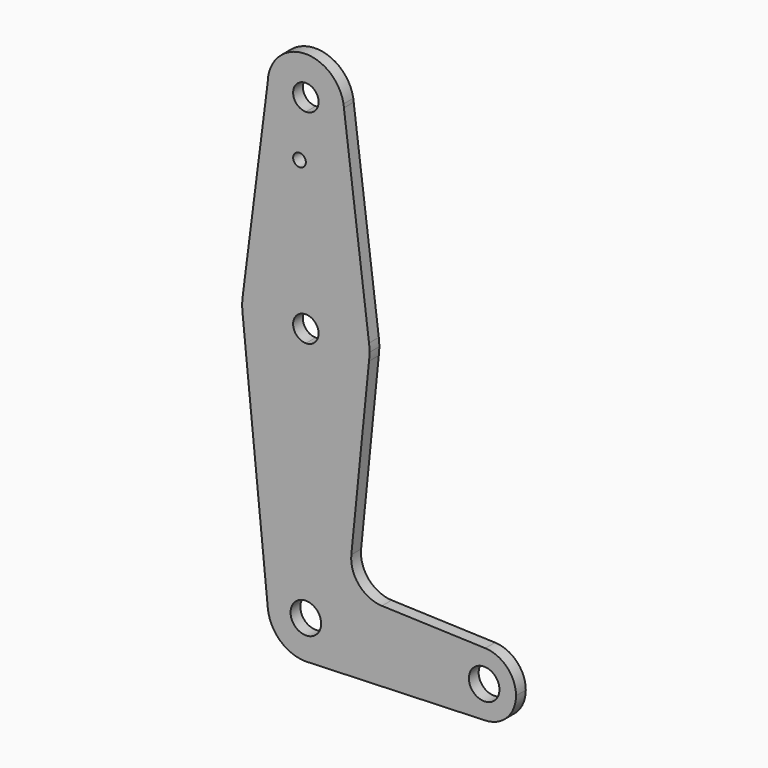
from build123d import *

# Parameters (mm, degrees)
F0_R     = 1.5875
F1_DEPTH = 3.048


with BuildPart() as f1:
    # F0 (on Front) → F1 (new body)
    with BuildSketch(Plane.XZ):
        with BuildLine():
            ThreePointArc((-67.8914059907, 50.9188928975), (-65.1442447597, 44.1069748935), (-58.3671480417, 41.275))
            ThreePointArc((-58.3671480417, 41.275), (-51.6319559509, 44.0648079092), (-48.8421480417, 50.8))
            ThreePointArc((-48.8421480417, 50.8), (-48.849997935, 51.1866249429), (-48.8735346761, 51.5726126228))
            Line((-48.8735346761, 51.5726126228), (-48.9791684557, 52.4098025632))
            ThreePointArc((-48.9791684557, 52.4098025632), (-59.1157105681, 60.2955399606), (-67.8914059907, 50.9188928975))
        make_face()
        with BuildLine():
            ThreePointArc((-55.1921480417, 50.8), (-56.1220840115, 48.5549359697), (-58.3671480417, 47.625))
            ThreePointArc((-58.3671480417, 47.625), (-60.612212072, 53.0450640303), (-55.1921480417, 50.8))
        make_face(mode=Mode.SUBTRACT)
        with BuildLine():
            ThreePointArc((-48.8421480417, 50.8), (-51.6319559509, 44.0648079092), (-58.3671480417, 41.275))
            Line((-58.3671480417, 41.275), (-58.3671480417, 36.5252))
            Line((-58.3671480417, 36.5252), (-58.3671480417, 15.875))
            ThreePointArc((-58.3671480417, 15.875), (-47.8679268329, 11.9072238161), (-42.6170281263, 1.9872965679))
            Line((-42.6170281263, 1.9872965679), (-48.8735346761, 51.5726126228))
            ThreePointArc((-48.8735346761, 51.5726126228), (-48.849997935, 51.1866249429), (-48.8421480417, 50.8))
        make_face()
        with BuildLine():
            Line((-58.3671480417, 36.5252), (-58.3671480417, 41.275))
            ThreePointArc((-58.3671480417, 41.275), (-65.1442447597, 44.1069748935), (-67.8914059907, 50.9188928975))
            Line((-67.8914059907, 50.9188928975), (-74.1151869129, 2.0037207173))
            ThreePointArc((-74.1151869129, 2.0037207173), (-68.860159016, 11.9126968271), (-58.3671480417, 15.875))
            Line((-58.3671480417, 15.875), (-58.3671480417, 36.5252))
        make_face()
        with Locations((-59.9546480417, 36.5252)):
            Circle(F0_R, mode=Mode.SUBTRACT)
        with BuildLine():
            ThreePointArc((-42.6170281263, 1.9872965679), (-47.8679268329, 11.9072238161), (-58.3671480417, 15.875))
            Line((-58.3671480417, 15.875), (-58.3671480417, 3.175))
            ThreePointArc((-58.3671480417, 3.175), (-56.1220840115, 2.2450640303), (-55.1921480417, 0))
            ThreePointArc((-55.1921480417, 0), (-56.1220840115, -2.2450640303), (-58.3671480417, -3.175))
            Line((-58.3671480417, -3.175), (-58.3671480417, -15.875))
            ThreePointArc((-58.3671480417, -15.875), (-47.8679268329, -11.9072238161), (-42.6170281263, -1.9872965679))
            ThreePointArc((-42.6170281263, -1.9872965679), (-42.5233988223, -0.9956081915), (-42.4921480417, 0))
            ThreePointArc((-42.4921480417, 0), (-42.5233988223, 0.9956081915), (-42.6170281263, 1.9872965679))
        make_face()
        with BuildLine():
            Line((-58.3671480417, 3.175), (-58.3671480417, 15.875))
            ThreePointArc((-58.3671480417, 15.875), (-68.860159016, 11.9126968271), (-74.1151869129, 2.0037207173))
            ThreePointArc((-74.1151869129, 2.0037207173), (-74.2419476164, 0.079771314), (-74.1345286258, -1.8453548488))
            ThreePointArc((-74.1345286258, -1.8453548488), (-68.9198874201, -11.8598194174), (-58.3671480417, -15.875))
            Line((-58.3671480417, -15.875), (-58.3671480417, -3.175))
            ThreePointArc((-58.3671480417, -3.175), (-61.5421480417, 0), (-58.3671480417, 3.175))
        make_face()
        with BuildLine():
            ThreePointArc((-48.8735346761, 51.5726126228), (-48.9170760924, 51.9923779407), (-48.9791684557, 52.4098025632))
            Line((-48.9791684557, 52.4098025632), (-48.8735346761, 51.5726126228))
        make_face()
        with BuildLine():
            ThreePointArc((-58.3671480417, -15.875), (-68.9198874201, -11.8598194174), (-74.1345286258, -1.8453548488))
            Line((-74.1345286258, -1.8453548488), (-67.8444354504, -64.4521808508))
            ThreePointArc((-67.8444354504, -64.4521808508), (-65.4309695147, -57.1103168155), (-58.3671480417, -53.975))
            Line((-58.3671480417, -53.975), (-58.3671480417, -15.875))
        make_face()
        with BuildLine():
            ThreePointArc((-42.6170281263, -1.9872965679), (-47.8679268329, -11.9072238161), (-58.3671480417, -15.875))
            Line((-58.3671480417, -15.875), (-58.3671480417, -53.975))
            ThreePointArc((-58.3671480417, -53.975), (-51.6319559509, -56.7648079092), (-48.8421480417, -63.5))
            Line((-48.8421480417, -63.5), (-21.8437665403, -63.5))
            ThreePointArc((-21.8437665403, -63.5), (-19.4182017198, -57.7883910474), (-13.6239298594, -55.5675229437))
            Line((-13.6239298594, -55.5675229437), (-39.4002507694, -54.6500792702))
            ThreePointArc((-39.4002507694, -54.6500792702), (-45.1072084667, -51.9325886547), (-47.0278760176, -45.9105327299))
            Line((-47.0278760176, -45.9105327299), (-42.6170281263, -1.9872965679))
        make_face()
        with BuildLine():
            ThreePointArc((-58.3671480417, -53.975), (-65.4309695147, -57.1103168155), (-67.8444354504, -64.4521808508))
            ThreePointArc((-67.8444354504, -64.4521808508), (-64.7568312262, -70.563821473), (-58.3671480417, -73.025))
            Line((-58.3671480417, -73.025), (-57.689968806, -73.0008974988))
            ThreePointArc((-57.689968806, -73.0008974988), (-51.3966474421, -69.9913593638), (-48.8421480417, -63.5))
            Line((-48.8421480417, -63.5), (-54.5571480417, -63.5))
            ThreePointArc((-54.5571480417, -63.5), (-61.061224878, -66.1940768363), (-58.3671480417, -59.69))
            Line((-58.3671480417, -59.69), (-58.3671480417, -53.975))
        make_face()
        with BuildLine():
            Line((-57.689968806, -73.0008974988), (-58.3671480417, -73.025))
            ThreePointArc((-58.3671480417, -73.025), (-58.0283440247, -73.0189724676), (-57.689968806, -73.0008974988))
        make_face()
        with BuildLine():
            Line((-21.8437665403, -63.5), (-48.8421480417, -63.5))
            ThreePointArc((-48.8421480417, -63.5), (-51.3966474421, -69.9913593638), (-57.689968806, -73.0008974988))
            Line((-57.689968806, -73.0008974988), (-13.6239298594, -71.4324770563))
            ThreePointArc((-13.6239298594, -71.4324770563), (-19.4182017198, -69.2116089526), (-21.8437665403, -63.5))
        make_face()
        with BuildLine():
            ThreePointArc((-13.6239298594, -55.5675229437), (-19.4182017198, -57.7883910474), (-21.8437665403, -63.5))
            ThreePointArc((-21.8437665403, -63.5), (-19.4182017198, -69.2116089526), (-13.6239298594, -71.4324770563))
            ThreePointArc((-13.6239298594, -71.4324770563), (-8.1946575877, -69.0119351795), (-5.9687665403, -63.5))
            ThreePointArc((-5.9687665403, -63.5), (-8.1946575877, -57.9880648205), (-13.6239298594, -55.5675229437))
        make_face()
        with BuildLine():
            ThreePointArc((-10.0962665403, -63.5), (-13.9062665403, -67.31), (-17.7162665403, -63.5))
            ThreePointArc((-17.7162665403, -63.5), (-13.9062665403, -59.69), (-10.0962665403, -63.5))
        make_face(mode=Mode.SUBTRACT)
        with BuildLine():
            ThreePointArc((-48.8421480417, -63.5), (-51.6319559509, -56.7648079092), (-58.3671480417, -53.975))
            Line((-58.3671480417, -53.975), (-58.3671480417, -59.69))
            ThreePointArc((-58.3671480417, -59.69), (-55.6730712054, -60.8059231637), (-54.5571480417, -63.5))
            Line((-54.5571480417, -63.5), (-48.8421480417, -63.5))
        make_face()
    extrude(amount=F1_DEPTH)


solid = f1.part
